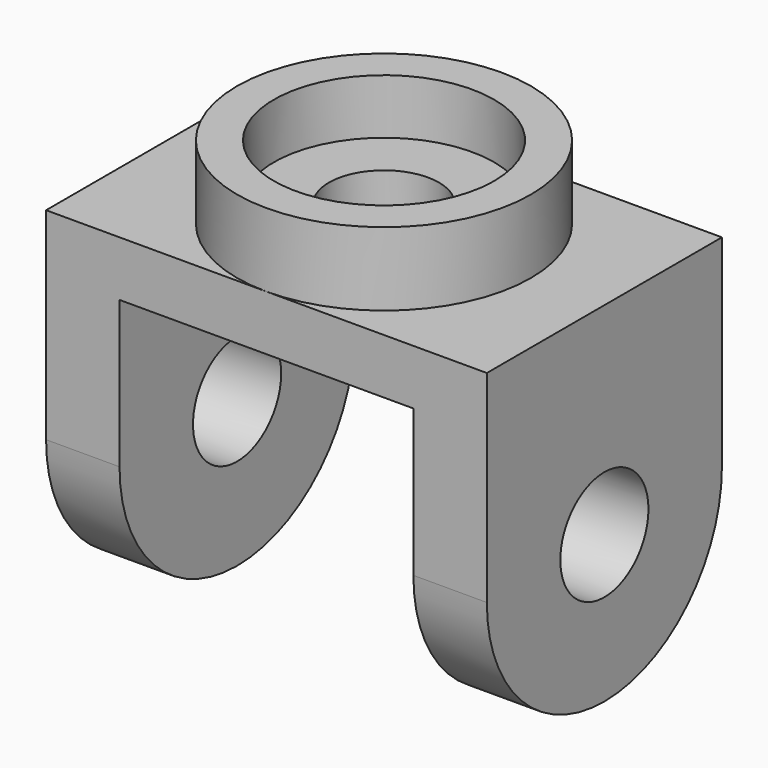
from build123d import *

# Parameters (mm, degrees)
SKETCH_W        = 120
SKETCH_H        = 80
PAD_DEPTH       = 15
SKETCH001_R     = 40
PAD001_DEPTH    = 20
SKETCH002_R     = 30
POCKET_DEPTH    = 15
SKETCH003_R     = 15
POCKET001_DEPTH = 20.001
SKETCH004_R     = 15
PAD002_DEPTH    = 120
SKETCH005_W     = 80
SKETCH005_H     = 96.232483
POCKET002_DEPTH = 80.0010000001


with BuildPart() as part:
    # Sketch → Pad (new body)
    with BuildSketch(Plane.XY):
        Rectangle(SKETCH_W, SKETCH_H)
    extrude(amount=-PAD_DEPTH)

    # Sketch001 → Pad001 (new body)
    with BuildSketch(Plane.XY):
        Circle(SKETCH001_R)
    extrude(amount=PAD001_DEPTH)

    # Sketch002 → Pocket (cut)
    with BuildSketch(Plane.XY.offset(20)):
        Circle(SKETCH002_R)
    extrude(amount=-POCKET_DEPTH, mode=Mode.SUBTRACT)

    # Sketch003 → Pocket001 (cut, through all)
    with BuildSketch(Plane.XY.offset(5)):
        Circle(SKETCH003_R)
    extrude(amount=-POCKET001_DEPTH, mode=Mode.SUBTRACT)

    # Sketch004 → Pad002 (new body)
    with BuildSketch(Plane.YZ.offset(60)):
        with BuildLine():
            ThreePointArc((-40, -55), (3.45478e-05, -95), (39.9999999999, -54.9999309045))
            Line((39.9999999999, -15), (39.9999999999, -54.9999309045))
            Line((-40, -15), (39.9999999999, -15))
            Line((-40, -55), (-40, -15))
        make_face()
        with Locations((0, -55)):
            Circle(SKETCH004_R, mode=Mode.SUBTRACT)
    extrude(amount=-PAD002_DEPTH)

    # Sketch005 → Pocket002 (cut, through all)
    with BuildSketch(Plane.XZ.offset(40)):
        with Locations((0, -63.1162415)):
            Rectangle(SKETCH005_W, SKETCH005_H)
    extrude(amount=-POCKET002_DEPTH, mode=Mode.SUBTRACT)


solid = part.part
